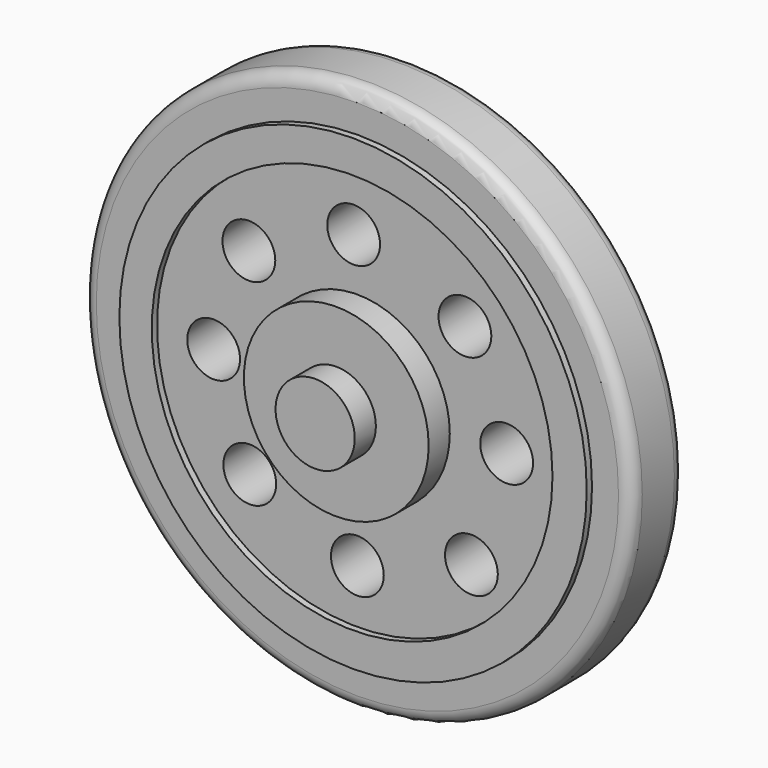
from build123d import *

# Parameters (mm, degrees)
F0_R      = 16.4973
F1_DEPTH  = 3.999992
F2_R      = 0.79375
F3_R      = 1.5875
F4_DEPTH  = 13.208
F5_R      = 1.5875
F6_DEPTH  = 12.7
F7_R      = 1.5875
F8_DEPTH  = 25.4
F9_R      = 1.5875
F10_DEPTH = 25.4
F11_R     = 1.5875
F12_DEPTH = 25.4
F13_R     = 1.5875
F14_DEPTH = 25.4
F15_R     = 1.5875
F16_DEPTH = 25.4
F17_R     = 1.5875
F18_DEPTH = 25.4
F19_R     = 5.55625
F20_DEPTH = 1.5875
F21_R     = 2.38125
F22_DEPTH = 1.5875
F24_R     = 14.053096
F24_R_2   = 12.049687
F25_DEPTH = 0.396875
F26_R     = 3.175
F27_DEPTH = 7.9375
F29_R     = 1.5875
F30_DEPTH = 7.9375


with BuildPart() as f1:
    # F0 (on Front) → F1 (new body)
    with BuildSketch(Plane.XZ):
        with Locations((-21.238506, 19.895638)):
            Circle(F0_R)
    extrude(amount=-F1_DEPTH)

    # F2
    f2_edges = [f1.edges().sort_by_distance(p)[0] for p in [
        (-37.735806, 0, 19.895638),
        (-37.735806, 3.999992, 19.895638),
    ]]
    fillet(f2_edges, radius=F2_R)

    # F3 (on face) → F4 (cut)
    with BuildSketch(Plane.XZ):
        with Locations((-21.463407, 28.544784)):
            Circle(F3_R)
    extrude(amount=-F4_DEPTH, mode=Mode.SUBTRACT)

    # F5 (on face) → F6 (cut)
    with BuildSketch(Plane.XZ):
        with Locations((-21.240363, 11.091588)):
            Circle(F5_R)
    extrude(amount=-F6_DEPTH, mode=Mode.SUBTRACT)

    # F7 (on face) → F8 (cut)
    with BuildSketch(Plane.XZ):
        with Locations((-29.88332, 19.734545)):
            Circle(F7_R)
    extrude(amount=-F8_DEPTH, mode=Mode.SUBTRACT)

    # F9 (on face) → F10 (cut)
    with BuildSketch(Plane.XZ):
        with Locations((-12.26284, 19.957587)):
            Circle(F9_R)
    extrude(amount=-F10_DEPTH, mode=Mode.SUBTRACT)

    # F11 (on face) → F12 (cut)
    with BuildSketch(Plane.XZ):
        with Locations((-27.7644, 25.645211)):
            Circle(F11_R)
    extrude(amount=-F12_DEPTH, mode=Mode.SUBTRACT)

    # F13 (on face) → F14 (cut)
    with BuildSketch(Plane.XZ):
        with Locations((-14.772085, 25.868254)):
            Circle(F13_R)
    extrude(amount=-F14_DEPTH, mode=Mode.SUBTRACT)

    # F15 (on face) → F16 (cut)
    with BuildSketch(Plane.XZ):
        with Locations((-27.708638, 13.823877)):
            Circle(F15_R)
    extrude(amount=-F16_DEPTH, mode=Mode.SUBTRACT)

    # F17 (on face) → F18 (cut)
    with BuildSketch(Plane.XZ):
        with Locations((-14.381759, 13.377788)):
            Circle(F17_R)
    extrude(amount=-F18_DEPTH, mode=Mode.SUBTRACT)

    # F19 (on face) → F20 (join)
    with BuildSketch(Plane.XZ):
        with Locations((-21.238506, 19.895638)):
            Circle(F19_R)
    extrude(amount=F20_DEPTH)

    # F21 (on face) → F22 (join)
    with BuildSketch(Plane.XZ.offset(1.5875)):
        with Locations((-21.238506, 19.895638)):
            Circle(F21_R)
    extrude(amount=F22_DEPTH)

    # F24 (on face) → F25 (join)
    with BuildSketch(Plane.XZ):
        with Locations((-21.182381, 19.857397)):
            Circle(F24_R)
        with Locations((-21.238506, 19.895638)):
            Circle(F24_R_2, mode=Mode.SUBTRACT)
    extrude(amount=F25_DEPTH)

    # F26 (on face) → F27 (join)
    with BuildSketch(Plane(origin=(0, 3.999992, 0), x_dir=(-1, 0, 0), z_dir=(0, 1, 0))):
        with Locations((21.238506, 19.895638)):
            Circle(F26_R)
    extrude(amount=F27_DEPTH)

    # F29 (on face) → F30 (cut)
    with BuildSketch(Plane(origin=(0, 11.937492, 0), x_dir=(-1, 0, 0), z_dir=(0, 1, 0))):
        with Locations((21.264283, 19.865673)):
            Circle(F29_R)
    extrude(amount=-F30_DEPTH, mode=Mode.SUBTRACT)


solid = f1.part
